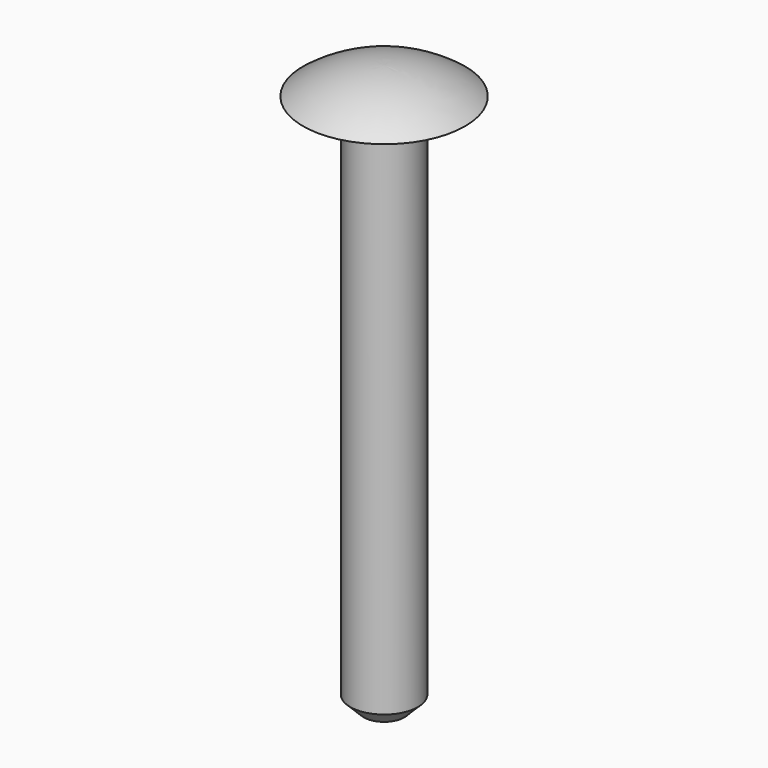
from build123d import *

# Parameters (mm, degrees)
F2_SIZE = 1.27


with BuildPart() as f1:
    # F0 (on Front) → F1 (revolve)
    with BuildSketch(Plane.XZ):
        with BuildLine():
            Line((0, 2.54), (0, -22.86))
            ThreePointArc((0, -22.86), (1.600255, -22.758777), (3.175, -22.456722))
            Line((3.175, -22.456722), (3.175, 0))
            Line((3.175, 0), (7.62, 0))
            ThreePointArc((7.62, 0), (4.016093, 1.888278), (0, 2.54))
        make_face()
        with BuildLine():
            Line((0, -22.86), (0, -50.8))
            Line((0, -50.8), (3.175, -50.8))
            Line((3.175, -50.8), (3.175, -22.456722))
            ThreePointArc((3.175, -22.456722), (1.600255, -22.758777), (0, -22.86))
        make_face()
    revolve(axis=Axis((0, 0, -6.554369), (0, 0, -1)))

    # F2
    f2_edges = [f1.edges().sort_by_distance(p)[0] for p in [
        (-3.175, 0, -50.8),
    ]]
    chamfer(f2_edges, length=F2_SIZE)


solid = f1.part
